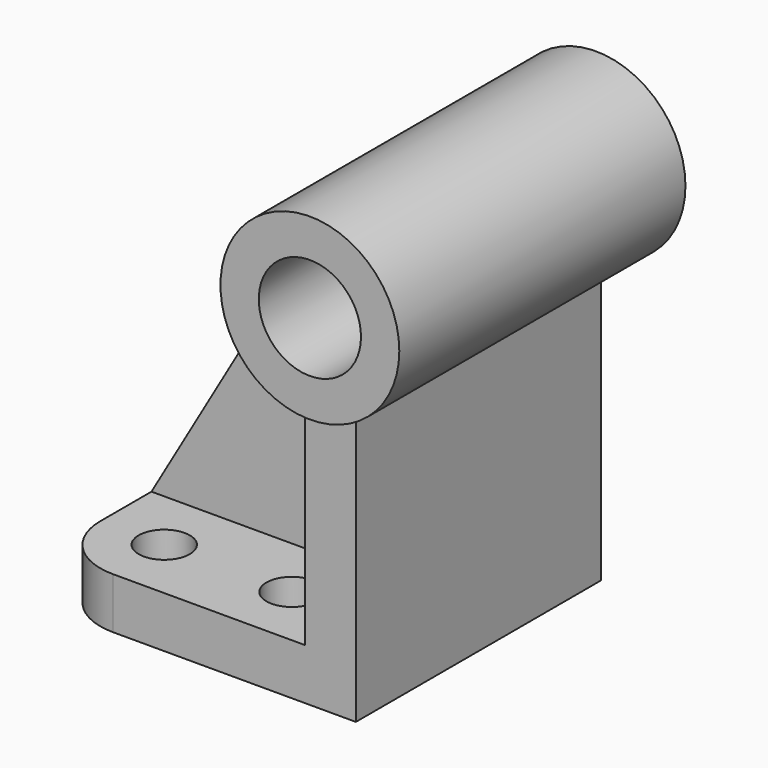
from build123d import *

# Parameters (mm, degrees)
F0_R     = 22.225
F0_R_2   = 12.7
F1_DEPTH = 44.45
F3_DEPTH = 38.1
F4_R     = 6.35
F5_DEPTH = 12.7
F7_DEPTH = 6.35


with BuildPart() as f1:
    # F0 (on Front) → F1 (new body, symmetric)
    with BuildSketch(Plane.XZ):
        Circle(F0_R)
        Circle(F0_R_2, mode=Mode.SUBTRACT)
    extrude(amount=F1_DEPTH, both=True)

    # F2 (on Front) → F3 (join, symmetric)
    with BuildSketch(Plane.XZ):
        with BuildLine():
            ThreePointArc((0, -22.225), (-3.208614, -21.992167), (-6.35, -21.298547))
            Line((-6.35, -21.298547), (-6.35, -88.9))
            Line((-6.35, -88.9), (0, -88.9))
            Line((0, -88.9), (0, -22.225))
        make_face()
        with BuildLine():
            ThreePointArc((6.35, -21.298547), (3.208614, -21.992167), (0, -22.225))
            Line((0, -22.225), (0, -88.9))
            Line((0, -88.9), (6.35, -88.9))
            Line((6.35, -88.9), (6.35, -21.298547))
        make_face()
    extrude(amount=F3_DEPTH, both=True)

    # F4 (on face) → F5 (join)
    with BuildSketch(Plane(origin=(0, 0, -88.9), x_dir=(1, 0, 0), z_dir=(0, 0, -1))):
        with BuildLine():
            Line((6.35, -38.1), (6.35, 38.1))
            Line((6.35, 38.1), (-53.975, 38.1))
            ThreePointArc((-53.975, 38.1), (-65.20032, 33.45032), (-69.85, 22.225))
            Line((-69.85, 22.225), (-69.85, -22.225))
            ThreePointArc((-69.85, -22.225), (-65.20032, -33.45032), (-53.975, -38.1))
            Line((-53.975, -38.1), (6.35, -38.1))
        make_face()
        with Locations((-53.975, -22.225)):
            Circle(F4_R, mode=Mode.SUBTRACT)
        with Locations((-22.225, -22.225)):
            Circle(F4_R, mode=Mode.SUBTRACT)
        with Locations((-53.975, 22.225)):
            Circle(F4_R, mode=Mode.SUBTRACT)
        with Locations((-22.225, 22.225)):
            Circle(F4_R, mode=Mode.SUBTRACT)
    extrude(amount=-F5_DEPTH)

    # F6 (on Front) → F7 (join, symmetric)
    with BuildSketch(Plane.XZ):
        with BuildLine():
            ThreePointArc((-6.35, -21.298547), (-20.656868, -8.200269), (-19.229016, 11.144306))
            Line((-19.229016, 11.144306), (-69.85, -76.2))
            Line((-69.85, -76.2), (-53.975, -76.2))
            Line((-53.975, -76.2), (-6.35, -76.2))
            Line((-6.35, -76.2), (-6.35, -21.298547))
        make_face()
    extrude(amount=F7_DEPTH, both=True)


solid = f1.part
